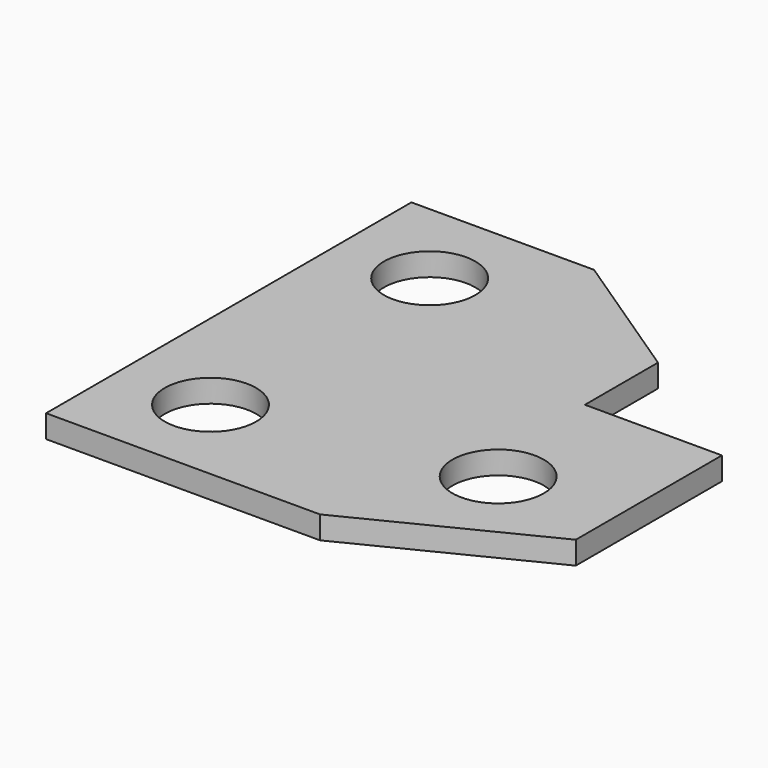
from build123d import *

# Parameters (mm, degrees)
F0_R     = 10
F1_DEPTH = 5


with BuildPart() as f1:
    # F0 (on Top) → F1 (new body)
    with BuildSketch(Plane.XY):
        Polygon((0, 100), (0, 0), (60, 0), (100, 20), (100, 60), (70, 60), (70, 80), (40, 100), align=None)
        with Locations((20, 20)):
            Circle(F0_R, mode=Mode.SUBTRACT)
        with Locations((75, 30)):
            Circle(F0_R, mode=Mode.SUBTRACT)
        with Locations((20, 80)):
            Circle(F0_R, mode=Mode.SUBTRACT)
    extrude(amount=F1_DEPTH)


solid = f1.part
